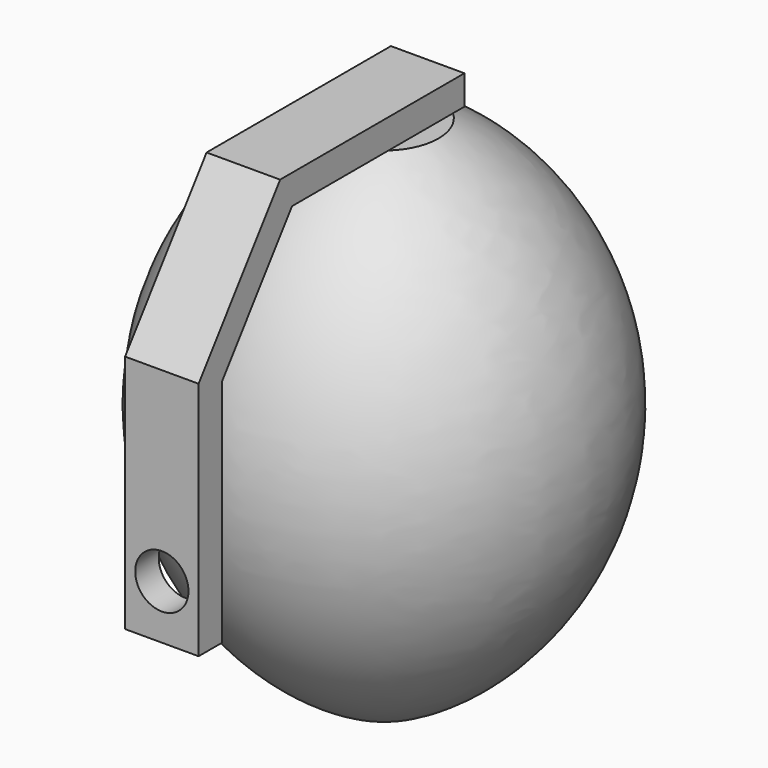
from build123d import *

# Parameters (mm, degrees)
F3_DEPTH = 6.35
F4_R     = 4.598208
F5_DEPTH = 5.08


with BuildPart() as f1:
    # F0 (on Right) → F1 (revolve)
    with BuildSketch(Plane.YZ):
        with BuildLine():
            Line((0, 86.870327), (-9.426804, 86.870327))
            ThreePointArc((-9.426804, 86.870327), (-35.242341, 43.435163), (-9.426804, 0))
            Line((-9.426804, 0), (0, 0))
            Line((0, 0), (0, 86.870327))
        make_face()
    revolve(axis=Axis((0, 0, 43.435163), (0, 0, 1)))

    # F2 (on Right) → F3 (join, symmetric)
    with BuildSketch(Plane.YZ):
        Polygon((-9.426804, 86.870327), (9.426804, 86.870327), (9.426804, 91.950327), (-9.426804, 91.950327), (-30.363404, 91.950327), (-47.955469, 68.07136), (-47.955469, 26.643386), (-42.875469, 26.643386), (-42.875469, 66.402136), (-27.796185, 86.870327), align=None)
    extrude(amount=F3_DEPTH, both=True)

    # F4 (on face) → F5 (cut, through all)
    with BuildSketch(Plane.XZ.offset(47.955469)):
        with Locations((0, 35.974011)):
            Circle(F4_R)
    extrude(amount=-F5_DEPTH, mode=Mode.SUBTRACT)


solid = f1.part
